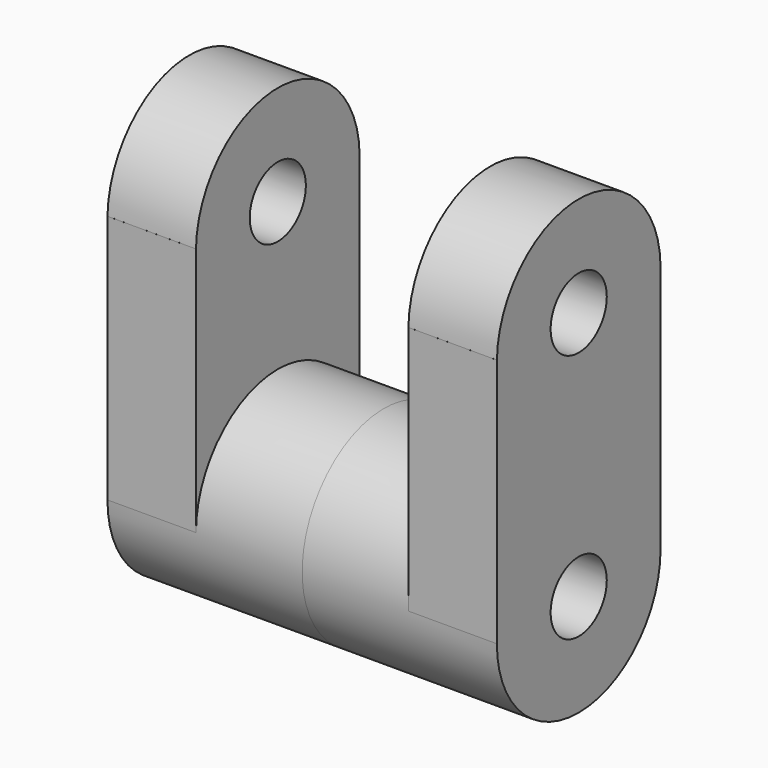
from build123d import *

# Parameters (mm, degrees)
F0_R     = 10.070149
F1_DEPTH = 25.4
F2_DEPTH = 30.48


with BuildPart() as f1:
    # F0 (on Right) → F1 (new body)
    with BuildSketch(Plane.YZ):
        with BuildLine():
            ThreePointArc((-29.356436, 0), (0, -29.356436), (29.356436, 0))
            ThreePointArc((29.356436, 0), (0, 29.356436), (-29.356436, 0))
        make_face()
        Circle(F0_R, mode=Mode.SUBTRACT)
        with BuildLine():
            ThreePointArc((-29.356436, 0), (0, 29.356436), (29.356436, 0))
            Line((29.356436, 0), (29.356436, 71.070336))
            ThreePointArc((29.356436, 71.070336), (29.354923, 71.368341), (29.350386, 71.666315))
            ThreePointArc((29.350386, 71.666315), (0, 100.426772), (-29.350386, 71.666315))
            ThreePointArc((-29.350386, 71.666315), (-29.354923, 71.368341), (-29.356436, 71.070336))
            Line((-29.356436, 71.070336), (-29.356436, 0))
        make_face()
        with Locations((0, 71.666315)):
            Circle(F0_R, mode=Mode.SUBTRACT)
        with BuildLine():
            ThreePointArc((29.350386, 71.666315), (29.354923, 71.368341), (29.356436, 71.070336))
            Line((29.356436, 71.070336), (29.356436, 71.666315))
            Line((29.356436, 71.666315), (29.350386, 71.666315))
        make_face()
        with BuildLine():
            Line((-29.356436, 71.666315), (-29.356436, 71.070336))
            ThreePointArc((-29.356436, 71.070336), (-29.354923, 71.368341), (-29.350386, 71.666315))
            Line((-29.350386, 71.666315), (-29.356436, 71.666315))
        make_face()
    extrude(amount=F1_DEPTH)

    # F0 (on Right) → F2 (join)
    with BuildSketch(Plane.YZ):
        with BuildLine():
            ThreePointArc((-29.356436, 0), (0, -29.356436), (29.356436, 0))
            ThreePointArc((29.356436, 0), (0, 29.356436), (-29.356436, 0))
        make_face()
        Circle(F0_R, mode=Mode.SUBTRACT)
    extrude(amount=-F2_DEPTH)

    # F4: F1 across plane


with BuildPart() as f1_1:
    add(f1.part)
    add(f1.part.mirror(Plane(origin=(-30.48, 0, 0), x_dir=(0, 1, 0), z_dir=(-1, 0, 0))))


solid = f1_1.part
